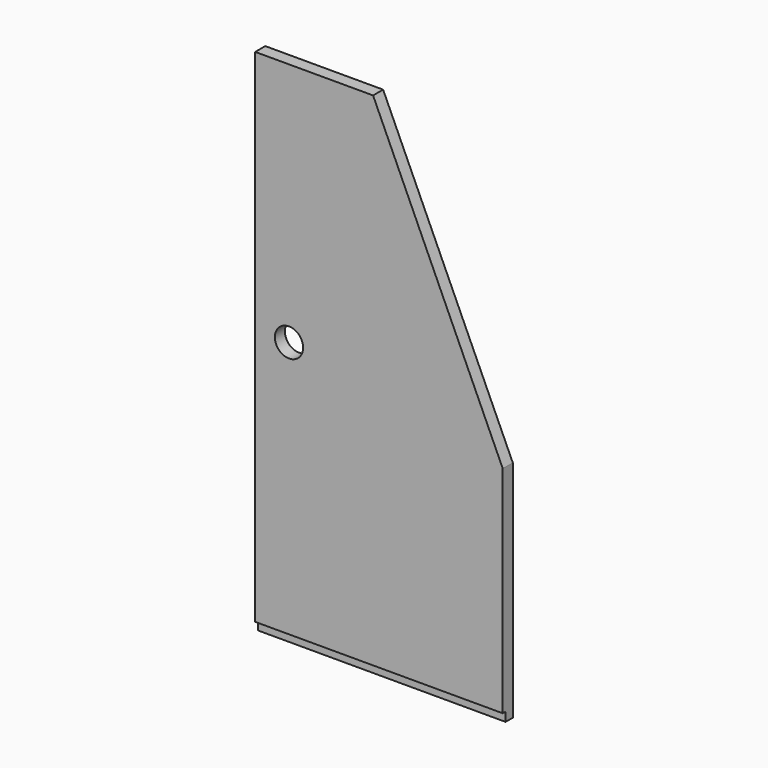
from build123d import *

# Parameters (mm, degrees)
F0_R     = 3.6
F0_W     = 30
F0_H     = 45.876608
F0_W_2   = 63
F0_H_2   = 54.823392
F1_DEPTH = 3.2
F0_H_3   = 2.3
F2_DEPTH = 2.3


with BuildPart() as f1:
    # F0 (on Front) → F1 (new body)
    with BuildSketch(Plane.XZ):
        Polygon((-43.617142, 31.438855), (-43.617142, 4.438855), (19.382858, 4.438855), (-13.617142, 77.315463), (-13.617142, 31.438855), align=None)
        with Locations((-35.017142, 15.013501)):
            Circle(F0_R, mode=Mode.SUBTRACT)
        with Locations((-28.617142, 54.377159)):
            Rectangle(F0_W, F0_H)
        with Locations((-12.117142, -22.972841)):
            Rectangle(F0_W_2, F0_H_2)
    extrude(amount=F1_DEPTH)

    # F0 (on Front) → F2 (join)
    with BuildSketch(Plane.XZ):
        Polygon((-43.617142, 31.438855), (-43.617142, 4.438855), (19.382858, 4.438855), (-13.617142, 77.315463), (-13.617142, 31.438855), align=None)
        with Locations((-35.017142, 15.013501)):
            Circle(F0_R, mode=Mode.SUBTRACT)
        with Locations((-12.117142, -22.972841)):
            Rectangle(F0_W_2, F0_H_2)
        with Locations((-12.117142, -51.534537)):
            Rectangle(F0_W_2, F0_H_3)
        with Locations((-28.617142, 54.377159)):
            Rectangle(F0_W, F0_H)
    extrude(amount=F2_DEPTH)


solid = f1.part
